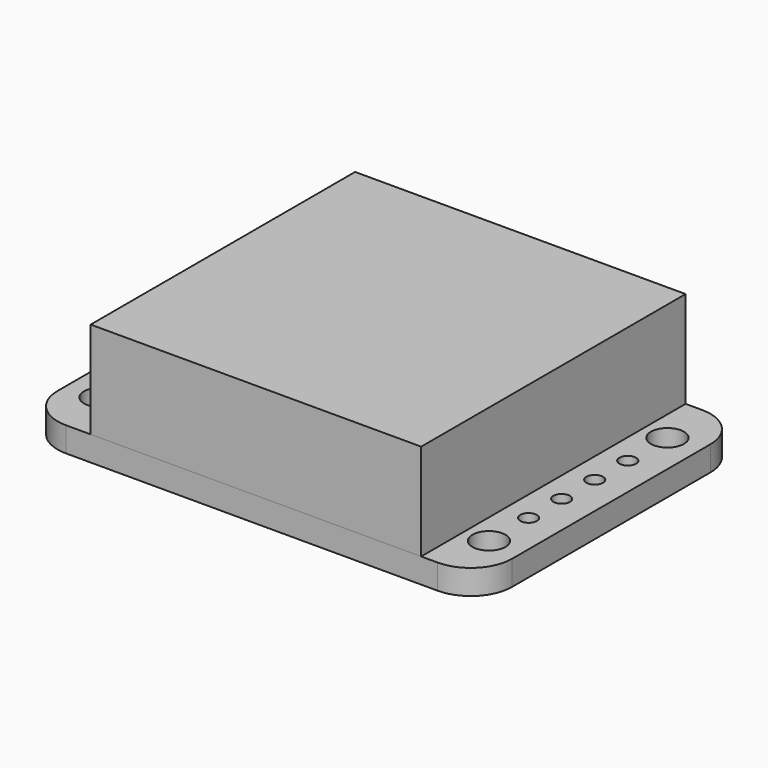
from build123d import *

# Parameters (mm, degrees)
F0_W     = 27.94
F0_H     = 20.32
F0_R     = 1.016
F1_DEPTH = 1.524
F2_R     = 2.54
F3_W     = 20.32
F3_H     = 20.32
F4_DEPTH = 5.9436
F5_R     = 0.508
F6_DEPTH = 1.525
F7_W     = 15.24
F7_H     = 8.89
F8_DEPTH = 2.54


with BuildPart() as f1:
    # F0 (on Top) → F1 (new body)
    with BuildSketch(Plane.XY):
        Rectangle(F0_W, F0_H)
        with Locations((-11.938, -6.858)):
            Circle(F0_R, mode=Mode.SUBTRACT)
        with Locations((11.938, -6.858)):
            Circle(F0_R, mode=Mode.SUBTRACT)
        with Locations((-11.938, 6.858)):
            Circle(F0_R, mode=Mode.SUBTRACT)
        with Locations((11.938, 6.858)):
            Circle(F0_R, mode=Mode.SUBTRACT)
    extrude(amount=F1_DEPTH)

    # F2
    f2_edges = [f1.edges().sort_by_distance(p)[0] for p in [
        (13.97, -10.16, 0.762),
        (-13.97, -10.16, 0.762),
        (-13.97, 10.16, 0.762),
        (13.97, 10.16, 0.762),
    ]]
    fillet(f2_edges, radius=F2_R)

    # F5 (on face) → F6 (cut, through all)
    with BuildSketch(Plane.XY.offset(1.524)):
        with Locations((11.938, 3.81)):
            Circle(F5_R)
        with Locations((11.938, 1.27)):
            Circle(F5_R)
        with Locations((11.938, -1.27)):
            Circle(F5_R)
        with Locations((11.938, -3.81)):
            Circle(F5_R)
    extrude(amount=-F6_DEPTH, mode=Mode.SUBTRACT)

    # F7 (on face) → F8 (join)
    with BuildSketch(Plane(origin=(0, 0, 0), x_dir=(1, 0, 0), z_dir=(0, 0, -1))):
        with Locations((-0.635, 0)):
            Rectangle(F7_W, F7_H)
    extrude(amount=F8_DEPTH)


with BuildPart() as f4:
    # F3 (on face) → F4 (new body)
    with BuildSketch(Plane.XY.offset(1.524)):
        with Locations((0.254, 0)):
            Rectangle(F3_W, F3_H)
    extrude(amount=F4_DEPTH)


solid = Compound([f1.part, f4.part])
